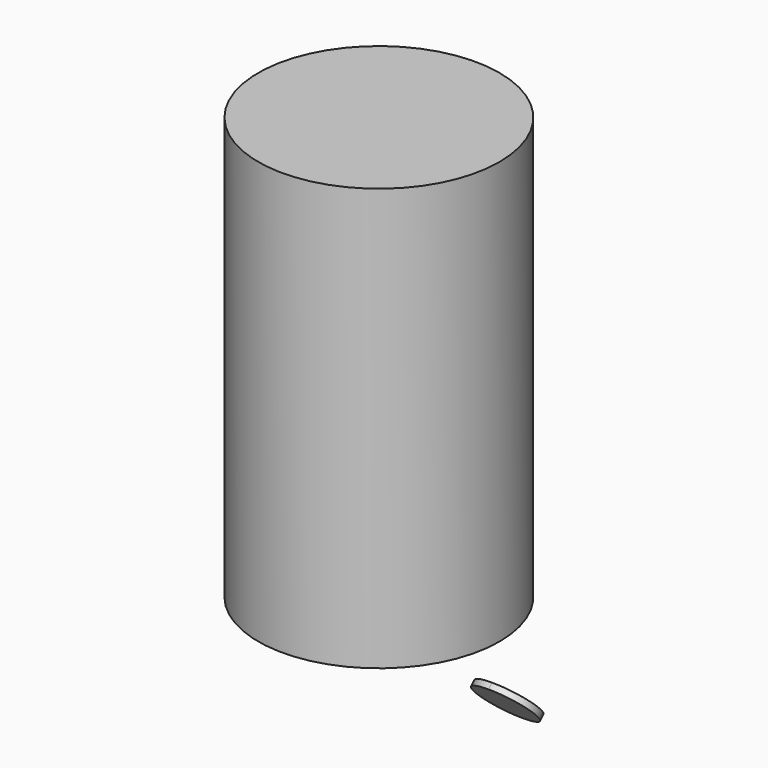
from build123d import *

# Parameters (mm, degrees)
F0_R     = 20
F1_DEPTH = 70
F5_DEPTH = 1


with BuildPart() as f1:
    # F0 (on Top) → F1 (new body)
    with BuildSketch(Plane.XY):
        Circle(F0_R)
    extrude(amount=F1_DEPTH)


with BuildPart() as f5:
    # F4 (on face) → F5 (new body)
    with BuildSketch(Plane(origin=(0, 0, 0), x_dir=(-1, 0, 0), z_dir=(0, 0.707107, 0.707107))):
        with BuildLine():
            ThreePointArc((0, -42.123106), (3.535534, -40.65864), (5, -37.123106))
            ThreePointArc((5, -37.123106), (3.535534, -33.587573), (0, -32.123106))
            Line((0, -32.123106), (0, -42.123106))
        make_face()
        with BuildLine():
            Line((0, -42.123106), (0, -32.123106))
            ThreePointArc((0, -32.123106), (-5, -37.123106), (0, -42.123106))
        make_face()
    extrude(amount=F5_DEPTH)


solid = Compound([f1.part, f5.part])
